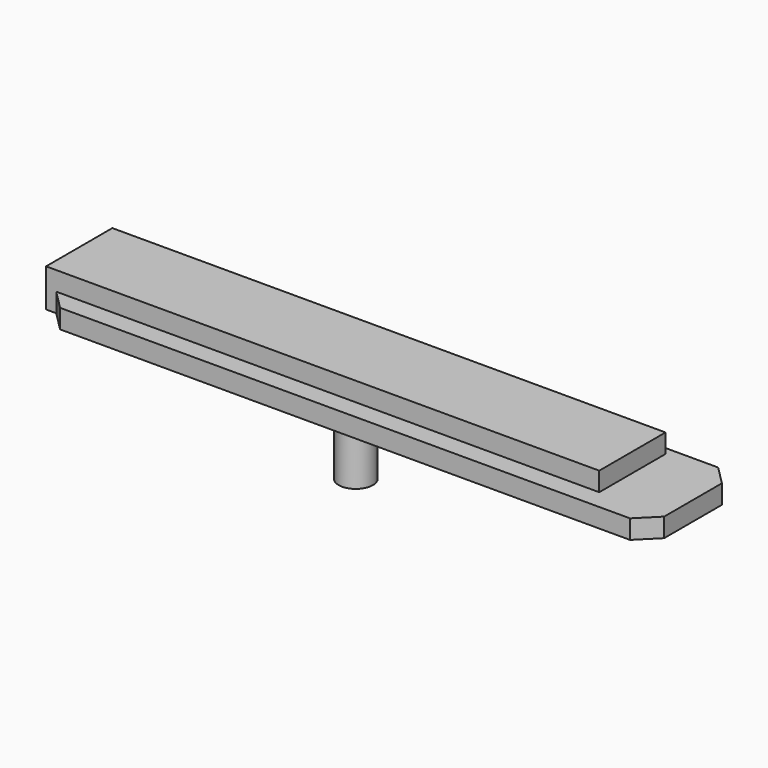
from build123d import *

# Parameters (mm, degrees)
F1_W     = 728
F1_H     = 109
F1_R     = 22.5
F2_DEPTH = 50
F3_DEPTH = 100
F0_W     = 800
F0_H     = 145
F4_DEPTH = 25
F5_SIZE  = 25


with BuildPart() as f2:
    # F1 (on Top) → F2 (new body)
    with BuildSketch(Plane.XY):
        with Locations((-34.374312, -71.720165)):
            Rectangle(F1_W, F1_H)
        with Locations((-34.374312, -71.720165)):
            Circle(F1_R, mode=Mode.SUBTRACT)
        with Locations((-34.374312, -71.720165)):
            Circle(F1_R)
    extrude(amount=F2_DEPTH)

    # F1 (on Top) → F3 (join)
    with BuildSketch(Plane.XY):
        with Locations((-34.374312, -71.720165)):
            Circle(F1_R)
    extrude(amount=-F3_DEPTH)


with BuildPart() as f4:
    # F0 (on Top) → F4 (new body)
    with BuildSketch(Plane.XY):
        with Locations((15.577245, -79.343417)):
            Rectangle(F0_W, F0_H)
    extrude(amount=F4_DEPTH)

    # F5
    f5_edges = [f4.edges().sort_by_distance(p)[0] for p in [
        (415.577245, -6.843417, 12.5),
        (415.577245, -151.843417, 12.5),
        (-384.422755, -6.843417, 12.5),
        (-384.422755, -151.843417, 12.5),
    ]]
    chamfer(f5_edges, length=F5_SIZE)


solid = Compound([f2.part, f4.part])
